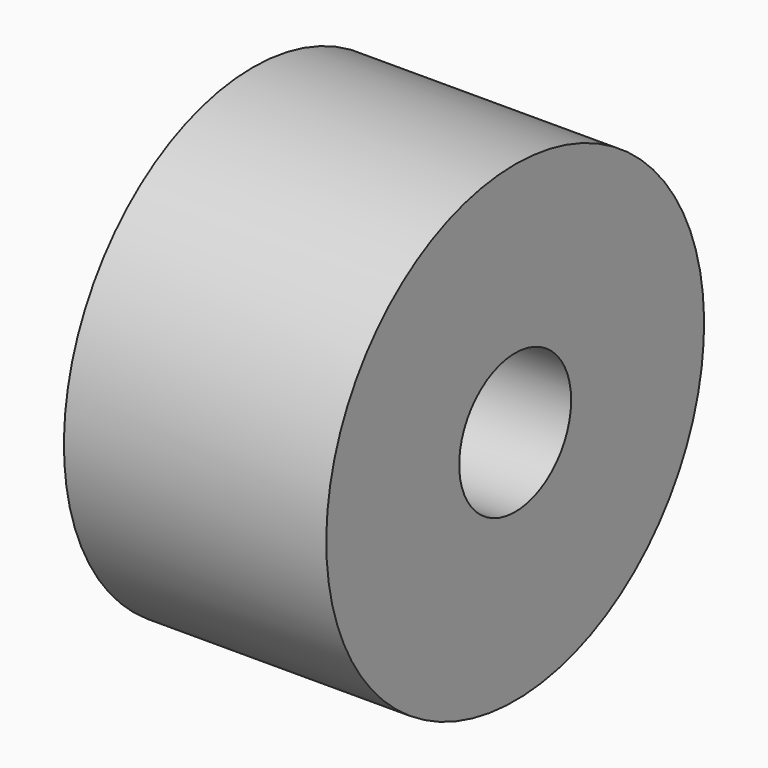
from build123d import *

# Parameters (mm, degrees)
F0_W     = 15
F0_H     = 13.5
F2_R     = 4
F3_DEPTH = 15.001


with BuildPart() as f1:
    # F0 (on Front) → F1 (revolve)
    with BuildSketch(Plane.XZ):
        with Locations((0, 6.75)):
            Rectangle(F0_W, F0_H)
    revolve(axis=Axis((0, 0, 0), (1, 0, 0)))

    # F2 (on face) → F3 (cut, through all)
    with BuildSketch(Plane.YZ.offset(7.5)):
        Circle(F2_R)
    extrude(amount=-F3_DEPTH, mode=Mode.SUBTRACT)


solid = f1.part
